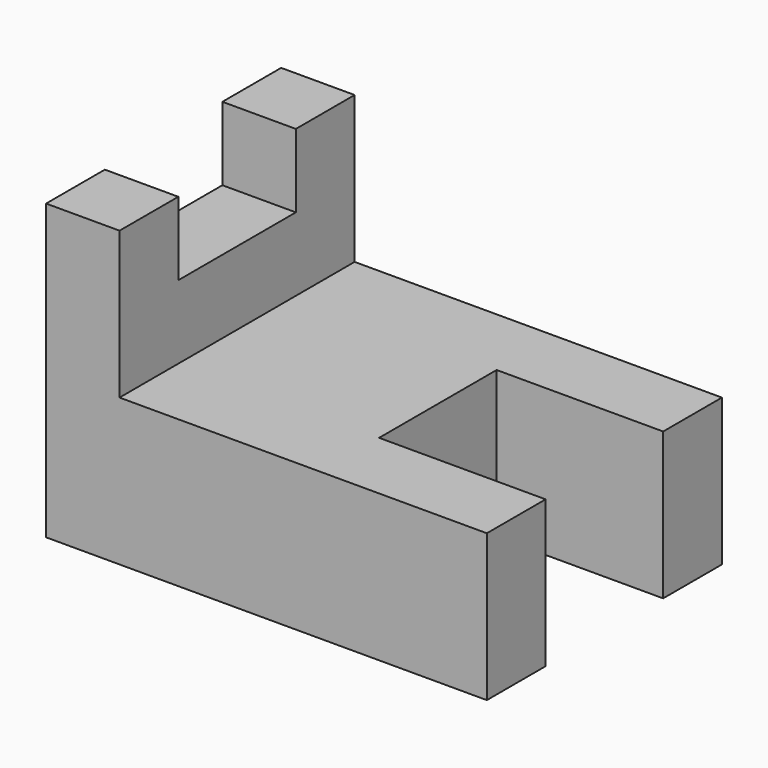
from build123d import *

# Parameters (mm, degrees)
F1_DEPTH = 12.7
F2_W     = 6.35
F2_H     = 25.4
F3_DEPTH = 12.7
F4_W     = 12.7
F4_H     = 6.35
F5_DEPTH = 25.4


with BuildPart() as f1:
    # F0 (on Top) → F1 (new body)
    with BuildSketch(Plane.XY):
        Polygon((0, 25.4), (0, 0), (38.1, 0), (38.1, 6.35), (23.706993, 6.35), (23.706993, 19.05), (38.1, 19.05), (38.1, 25.4), align=None)
    extrude(amount=F1_DEPTH)

    # F2 (on face) → F3 (join)
    with BuildSketch(Plane.XY.offset(12.7)):
        with Locations((3.175, 12.7)):
            Rectangle(F2_W, F2_H)
    extrude(amount=F3_DEPTH)

    # F4 (on face) → F5 (cut)
    with BuildSketch(Plane.YZ.offset(6.35)):
        with Locations((12.7, 22.225)):
            Rectangle(F4_W, F4_H)
    extrude(amount=-F5_DEPTH, mode=Mode.SUBTRACT)


solid = f1.part
